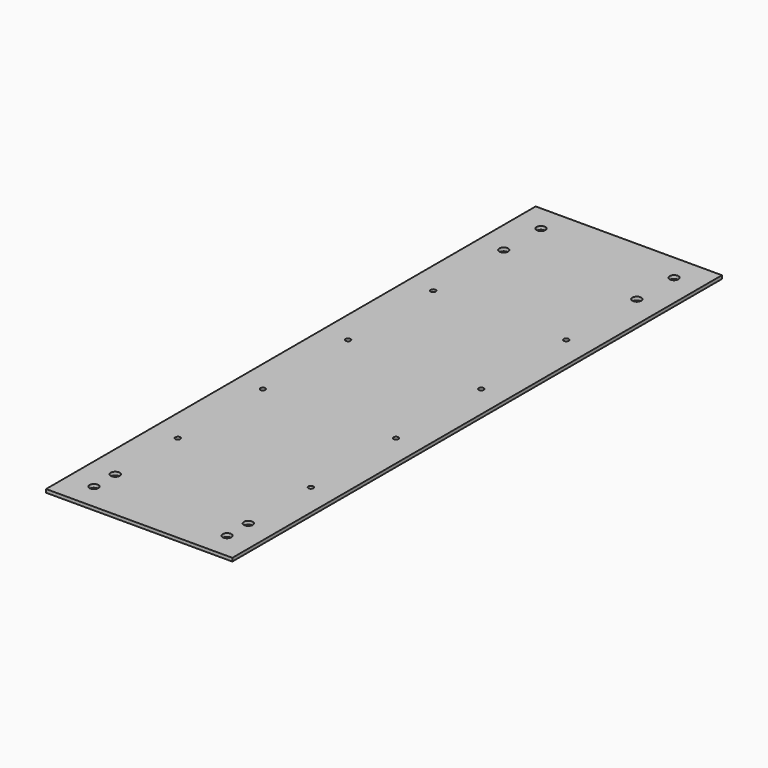
from build123d import *

# Parameters (mm, degrees)
F0_W     = 88.9
F0_H     = 292.1
F1_DEPTH = 1.5875
F3_D     = 4.2
F3_DEPTH = 15.1
F3_TIP   = 1.2618073
F5_D     = 2.4
F5_DEPTH = 14.478
F5_TIP   = 0.7210327428


with BuildPart() as f1:
    # F0 (on Top) → F1 (new body)
    with BuildSketch(Plane.XY):
        Rectangle(F0_W, F0_H)
    extrude(amount=F1_DEPTH)

    # F3
    with Locations(Plane.XY.offset(1.5875)):
        with Locations((-31.75, 133.35), (-31.75, 111.125), (31.75, 111.125), (31.75, 133.35), (-31.75, -120.65), (-31.75, -133.35), (31.75, -133.35), (31.75, -120.65)):
            Hole(F3_D / 2, depth=F3_DEPTH)
            with Locations((0, 0, -(F3_DEPTH + F3_TIP / 2))):  # 118° drill point
                Cone(0, F3_D / 2, F3_TIP, mode=Mode.SUBTRACT)

    # F5
    with Locations(Plane.XY.offset(1.5875)):
        with Locations((-31.75, 69.05752), (31.75, 69.05752), (31.75, 18.25752), (-31.75, 18.25752), (-31.75, -32.54248), (31.75, -32.54248), (31.75, -83.34248), (-31.75, -83.34248)):
            Hole(F5_D / 2, depth=F5_DEPTH)
            with Locations((0, 0, -(F5_DEPTH + F5_TIP / 2))):  # 118° drill point
                Cone(0, F5_D / 2, F5_TIP, mode=Mode.SUBTRACT)


solid = f1.part
